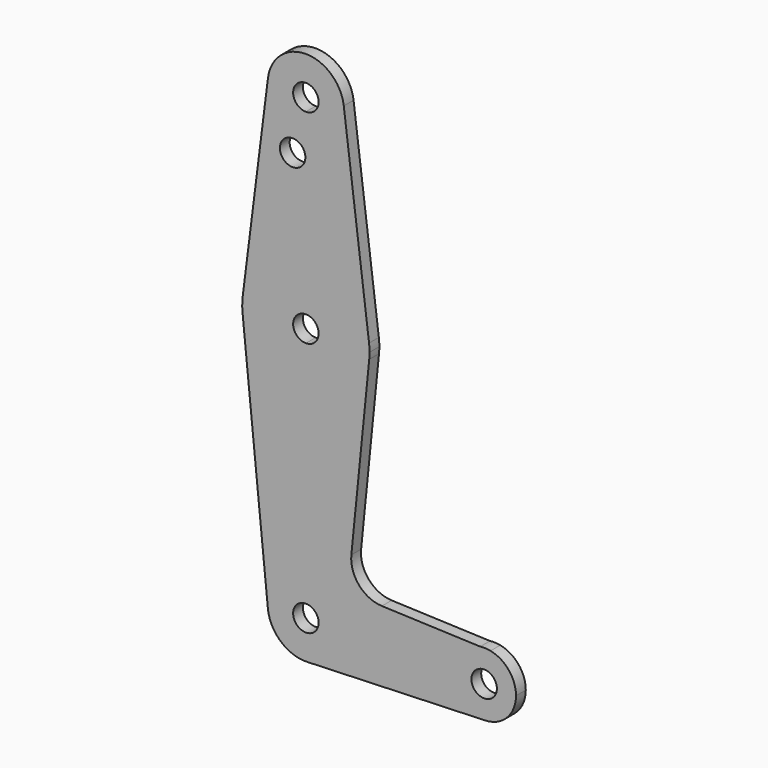
from build123d import *

# Parameters (mm, degrees)
F0_R     = 3.175
F1_DEPTH = 3.048


with BuildPart() as f1:
    # F0 (on Front) → F1 (new body)
    with BuildSketch(Plane.XZ):
        with BuildLine():
            ThreePointArc((0, 9.525), (-7.063929059, 6.3895642457), (-9.4772553384, -0.9525))
            ThreePointArc((-9.4772553384, -0.9525), (-6.2623833816, -7.1769199091), (0.3401785714, -9.5189234444))
            ThreePointArc((0.3401785714, -9.5189234444), (6.8544082857, -6.6138273378), (9.525, 0))
            ThreePointArc((9.525, 0), (6.7351920908, 6.7351920908), (0, 9.525))
        make_face()
        with BuildLine():
            ThreePointArc((3.175, 0), (-2.2450640303, -2.2450640303), (0, 3.175))
            ThreePointArc((0, 3.175), (2.2450640303, 2.2450640303), (3.175, 0))
        make_face(mode=Mode.SUBTRACT)
        with BuildLine():
            Line((-15.7954255641, 61.9125), (-9.4772553384, -0.9525))
            ThreePointArc((-9.4772553384, -0.9525), (-7.063929059, 6.3895642457), (0, 9.525))
            Line((0, 9.525), (0, 47.625))
            ThreePointArc((0, 47.625), (-10.6492737428, 51.7267849017), (-15.7954255641, 61.9125))
        make_face()
        with BuildLine():
            ThreePointArc((9.525, 0), (6.8544082857, -6.6138273378), (0.3401785714, -9.5189234444))
            Line((0.3401785714, -9.5189234444), (44.7334821429, -7.9324362036))
            ThreePointArc((44.7334821429, -7.9324362036), (36.5380967786, -0.6369408649), (43.4608676919, 7.8756284528))
            Line((43.4608676919, 7.8756284528), (18.9443545952, 8.8099483822))
            ThreePointArc((18.9443545952, 8.8099483822), (13.2505911997, 11.5344794629), (11.3367663939, 17.5494013931))
            Line((11.3367663939, 17.5494013931), (15.7954255641, 61.9125))
            ThreePointArc((15.7954255641, 61.9125), (10.6492737428, 51.7267849017), (0, 47.625))
            Line((0, 47.625), (0, 9.525))
            ThreePointArc((0, 9.525), (6.7351920908, 6.7351920908), (9.525, 0))
        make_face()
        with BuildLine():
            ThreePointArc((-15.7504882737, 65.484375), (-15.8737438155, 63.6997054867), (-15.7954255641, 61.9125))
            ThreePointArc((-15.7954255641, 61.9125), (-10.6492737428, 51.7267849017), (0, 47.625))
            Line((0, 47.625), (0, 60.325))
            ThreePointArc((0, 60.325), (-3.175, 63.5), (0, 66.675))
            Line((0, 66.675), (0, 79.375))
            ThreePointArc((0, 79.375), (-10.5003255158, 75.40625), (-15.7504882737, 65.484375))
        make_face()
        with BuildLine():
            ThreePointArc((43.4608676919, 7.8756284528), (36.5380967786, -0.6369408649), (44.7334821429, -7.9324362036))
            ThreePointArc((44.7334821429, -7.9324362036), (50.1620069047, -5.5115227815), (52.3875, 0))
            ThreePointArc((52.3875, 0), (50.5977705184, 5.020838964), (46.0356703552, 7.7775031838))
            Line((46.0356703552, 7.7775031838), (43.4608676919, 7.8756284528))
        make_face()
        with Locations((44.45, 0)):
            Circle(F0_R, mode=Mode.SUBTRACT)
        with BuildLine():
            Line((0, 60.325), (0, 47.625))
            ThreePointArc((0, 47.625), (10.6492737428, 51.7267849017), (15.7954255641, 61.9125))
            ThreePointArc((15.7954255641, 61.9125), (15.8550939106, 62.7052534459), (15.875, 63.5))
            ThreePointArc((15.875, 63.5), (15.8438414904, 64.4941387366), (15.7504882737, 65.484375))
            ThreePointArc((15.7504882737, 65.484375), (10.5003255158, 75.40625), (0, 79.375))
            Line((0, 79.375), (0, 66.675))
            ThreePointArc((0, 66.675), (2.2450640303, 65.7450640303), (3.175, 63.5))
            ThreePointArc((3.175, 63.5), (2.2450640303, 61.2549359697), (0, 60.325))
        make_face()
        with BuildLine():
            Line((-9.4502929642, 115.490625), (-15.7504882737, 65.484375))
            ThreePointArc((-15.7504882737, 65.484375), (-10.5003255158, 75.40625), (0, 79.375))
            Line((0, 79.375), (0, 104.775))
            ThreePointArc((0, 104.775), (-7.14375, 107.9998046905), (-9.4502929642, 115.490625))
        make_face()
        with Locations((-3.3041115385, 101.0742560029)):
            Circle(F0_R, mode=Mode.SUBTRACT)
        with BuildLine():
            ThreePointArc((46.0356703552, 7.7775031838), (44.7522772775, 7.9317422233), (43.4608676919, 7.8756284528))
            Line((43.4608676919, 7.8756284528), (46.0356703552, 7.7775031838))
        make_face()
        with BuildLine():
            Line((0, 104.775), (0, 79.375))
            ThreePointArc((0, 79.375), (10.5003255158, 75.40625), (15.7504882737, 65.484375))
            Line((15.7504882737, 65.484375), (9.4502929642, 115.490625))
            ThreePointArc((9.4502929642, 115.490625), (9.5063048942, 114.896483242), (9.525, 114.3))
            ThreePointArc((9.525, 114.3), (6.7351920908, 107.5648079092), (0, 104.775))
        make_face()
        with BuildLine():
            ThreePointArc((9.4502929642, 115.490625), (0, 123.825), (-9.4502929642, 115.490625))
            ThreePointArc((-9.4502929642, 115.490625), (-7.14375, 107.9998046905), (0, 104.775))
            ThreePointArc((0, 104.775), (6.7351920908, 107.5648079092), (9.525, 114.3))
            ThreePointArc((9.525, 114.3), (9.5063048942, 114.896483242), (9.4502929642, 115.490625))
        make_face()
        with BuildLine():
            ThreePointArc((3.175, 114.3), (2.2450640303, 112.0549359697), (0, 111.125))
            ThreePointArc((0, 111.125), (-2.2450640303, 116.5450640303), (3.175, 114.3))
        make_face(mode=Mode.SUBTRACT)
    extrude(amount=F1_DEPTH)


solid = f1.part
